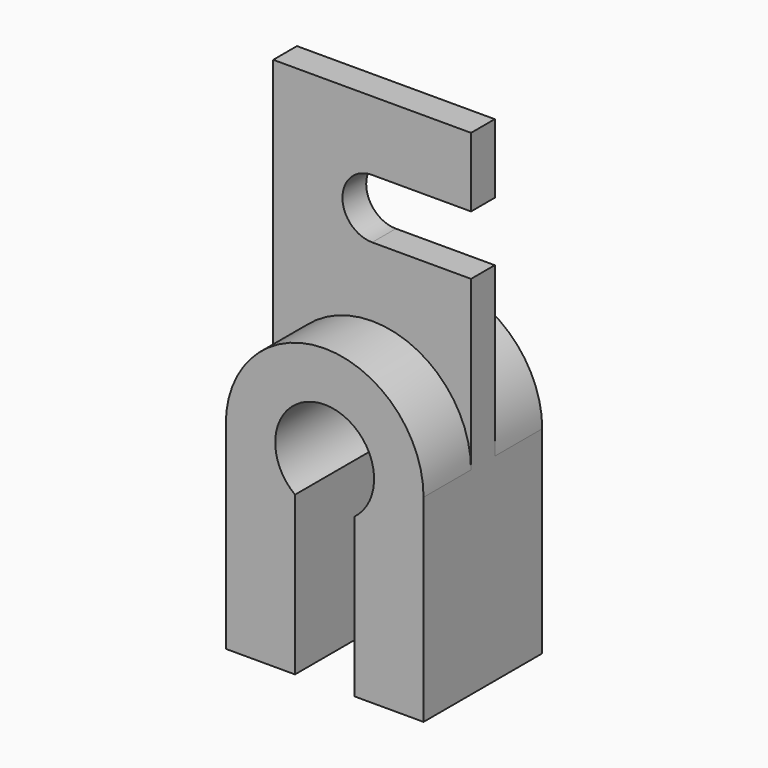
from build123d import *

# Parameters (mm, degrees)
F1_DEPTH = 22.5
F3_DEPTH = 4.5


with BuildPart() as f1:
    # F0 (on Front) → F1 (new body, symmetric)
    with BuildSketch(Plane.XZ):
        with BuildLine():
            Line((-30, 0), (-15, 0))
            ThreePointArc((-15, 0), (0, 15), (15, 0))
            Line((15, 0), (30, 0))
            ThreePointArc((30, 0), (0, 30), (-30, 0))
        make_face()
        with BuildLine():
            ThreePointArc((15, 0), (13.416407865, -6.7082039325), (9, -12))
            Line((9, -12), (9, -28.6181760425))
            ThreePointArc((9, -28.6181760425), (24.1867732449, -17.7482393493), (30, 0))
            Line((30, 0), (15, 0))
        make_face()
        with BuildLine():
            Line((-9, -28.6181760425), (-9, -12))
            ThreePointArc((-9, -12), (-13.416407865, -6.7082039325), (-15, 0))
            Line((-15, 0), (-30, 0))
            ThreePointArc((-30, 0), (-24.1867732449, -17.7482393493), (-9, -28.6181760425))
        make_face()
        with BuildLine():
            Line((-9, -60), (-9, -28.6181760425))
            ThreePointArc((-9, -28.6181760425), (-24.1867732449, -17.7482393493), (-30, 0))
            Line((-30, 0), (-30, -60))
            Line((-30, -60), (-9, -60))
        make_face()
        with BuildLine():
            ThreePointArc((30, 0), (24.1867732449, -17.7482393493), (9, -28.6181760425))
            Line((9, -28.6181760425), (9, -60))
            Line((9, -60), (30, -60))
            Line((30, -60), (30, 0))
        make_face()
    extrude(amount=F1_DEPTH, both=True)

    # F2 (on Front) → F3 (join, symmetric)
    with BuildSketch(Plane.XZ):
        with BuildLine():
            Line((-30, 90), (-30, 0))
            ThreePointArc((-30, 0), (0, 30), (30, 0))
            Line((30, 0), (30, 51))
            Line((30, 51), (0, 51))
            ThreePointArc((0, 51), (-9, 60), (0, 69))
            Line((0, 69), (30, 69))
            Line((30, 69), (30, 90))
            Line((30, 90), (-30, 90))
        make_face()
    extrude(amount=F3_DEPTH, both=True)


solid = f1.part
